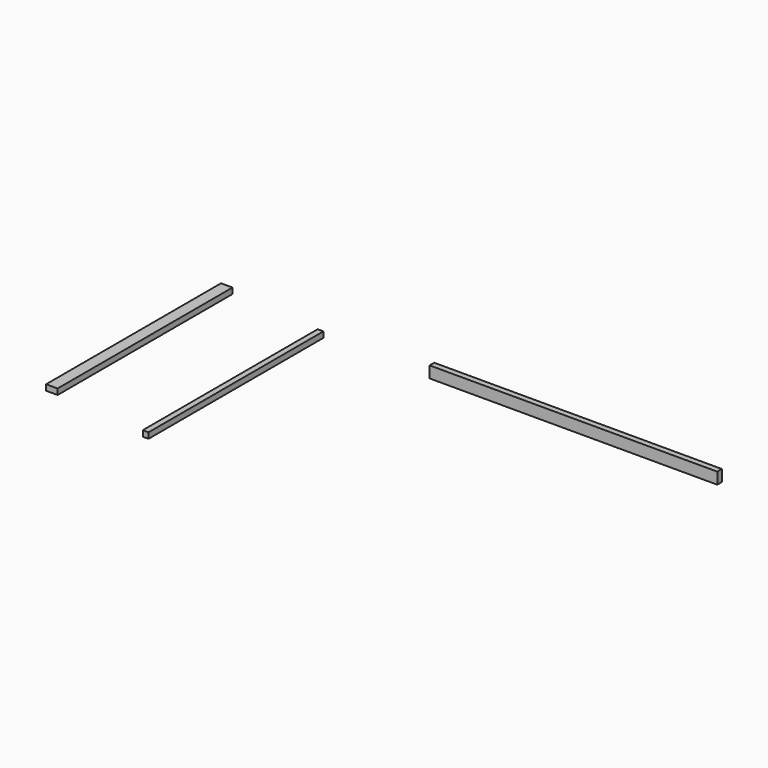
from build123d import *

# Parameters (mm, degrees)
F0_W     = 1905
F0_H     = 38.1
F1_DEPTH = 76.2
F2_W     = 76.2
F2_H     = 1447.8
F3_DEPTH = 38.1
F4_W     = 38.1
F4_H     = 1447.8
F5_DEPTH = 38.1


with BuildPart() as f1:
    # F0 (on Top) → F1 (new body)
    with BuildSketch(Plane.XY):
        with Locations((-107.231603, 334.950002)):
            Rectangle(F0_W, F0_H)
    extrude(amount=-F1_DEPTH)


with BuildPart() as f3:
    # F2 (on Top) → F3 (new body)
    with BuildSketch(Plane.XY):
        with Locations((-2438.376423, -363.996813)):
            Rectangle(F2_W, F2_H)
    extrude(amount=-F3_DEPTH)


with BuildPart() as f5:
    # F4 (on Top) → F5 (new body)
    with BuildSketch(Plane.XY):
        with Locations((-1745.639146, -453.403354)):
            Rectangle(F4_W, F4_H)
    extrude(amount=-F5_DEPTH)


solid = Compound([f1.part, f3.part, f5.part])
